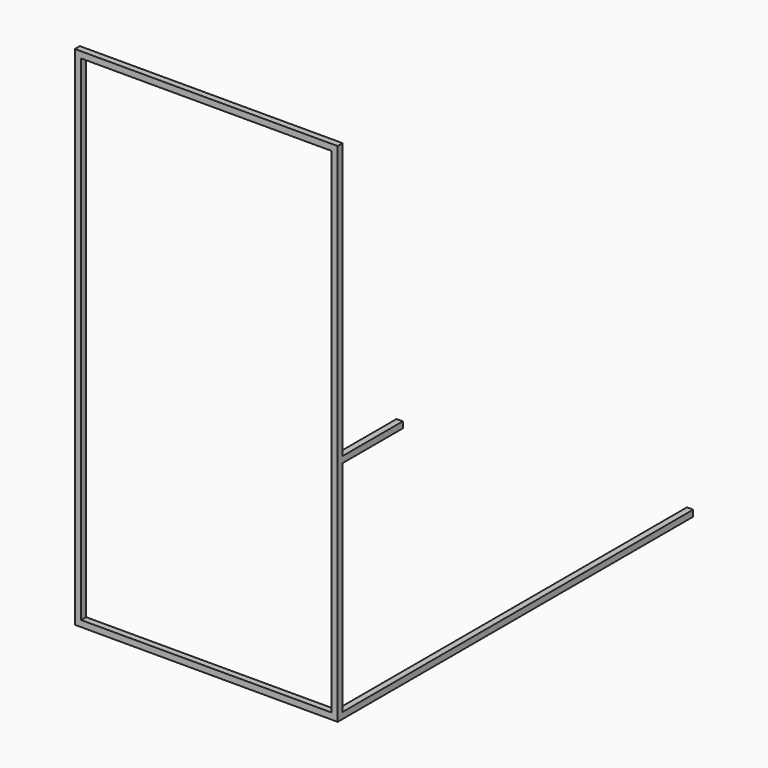
from build123d import *

# Parameters (mm, degrees)
F0_W     = 1066.8
F0_H     = 2057.4
F0_W_2   = 1016
F0_H_2   = 2006.6
F1_DEPTH = 25.4
F2_W     = 304.8
F2_H     = 25.4
F3_DEPTH = 25.4
F4_W     = 25.4
F4_H     = 25.4
F5_DEPTH = 1778


with BuildPart() as f1:
    # F0 (on Front) → F1 (new body)
    with BuildSketch(Plane.XZ):
        Rectangle(F0_W, F0_H)
        Rectangle(F0_W_2, F0_H_2, mode=Mode.SUBTRACT)
    extrude(amount=F1_DEPTH)

    # F2 (on face) → F3 (join)
    with BuildSketch(Plane.YZ.offset(533.4)):
        with Locations((152.4, -101.6)):
            Rectangle(F2_W, F2_H)
    extrude(amount=-F3_DEPTH)

    # F4 (on face) → F5 (join)
    with BuildSketch(Plane(origin=(0, 0, 0), x_dir=(-1, 0, 0), z_dir=(0, 1, 0))):
        with Locations((-520.7, -1016)):
            Rectangle(F4_W, F4_H)
    extrude(amount=F5_DEPTH)


solid = f1.part
